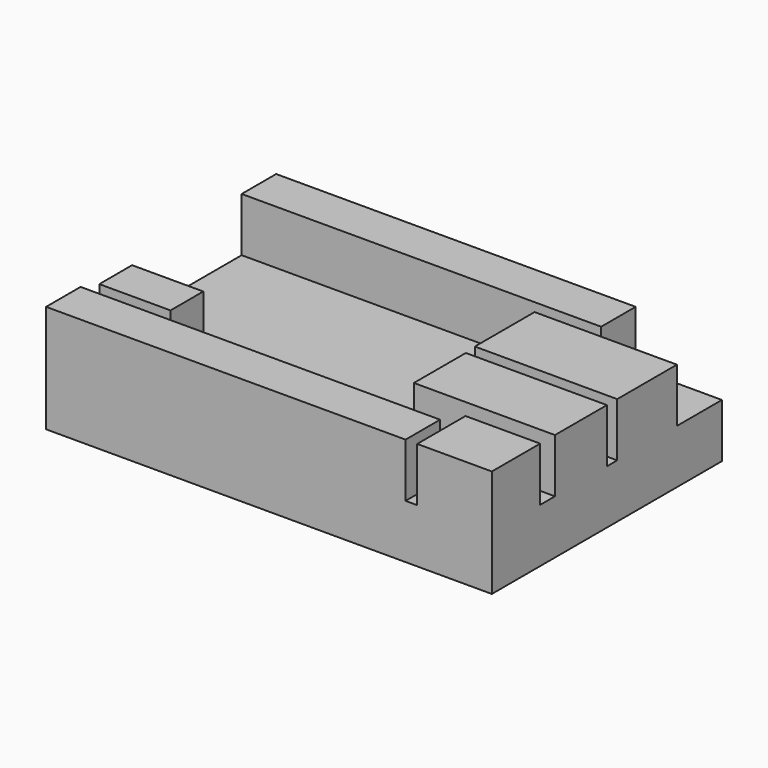
from build123d import *

# Parameters (mm, degrees)
F0_W     = 62
F0_H     = 40
F1_DEPTH = 7.5
F2_W     = 50
F2_H     = 6
F2_W_2   = 19.8
F2_H_2   = 10.380229
F2_W_3   = 19.621674
F2_H_3   = 9.028182
F2_W_4   = 10.382744
F2_H_4   = 8.4
F2_W_5   = 9.903714
F2_H_5   = 5.7
F3_DEPTH = 7.5


with BuildPart() as f1:
    # F0 (on Top) → F1 (new body)
    with BuildSketch(Plane.XY):
        Rectangle(F0_W, F0_H)
    extrude(amount=F1_DEPTH)

    # F2 (on face) → F3 (join)
    with BuildSketch(Plane.XY.offset(7.5)):
        with Locations((-6, 17)):
            Rectangle(F2_W, F2_H)
        with Locations((-6, -17)):
            Rectangle(F2_W, F2_H)
        with Locations((21.1, 6.986693)):
            Rectangle(F2_W_2, F2_H_2)
        with Locations((21.189163, -4.514091)):
            Rectangle(F2_W_3, F2_H_3)
        with Locations((25.808628, -15.8)):
            Rectangle(F2_W_4, F2_H_4)
        with Locations((-24.872685, -9.367513)):
            Rectangle(F2_W_5, F2_H_5)
    extrude(amount=F3_DEPTH)


solid = f1.part
